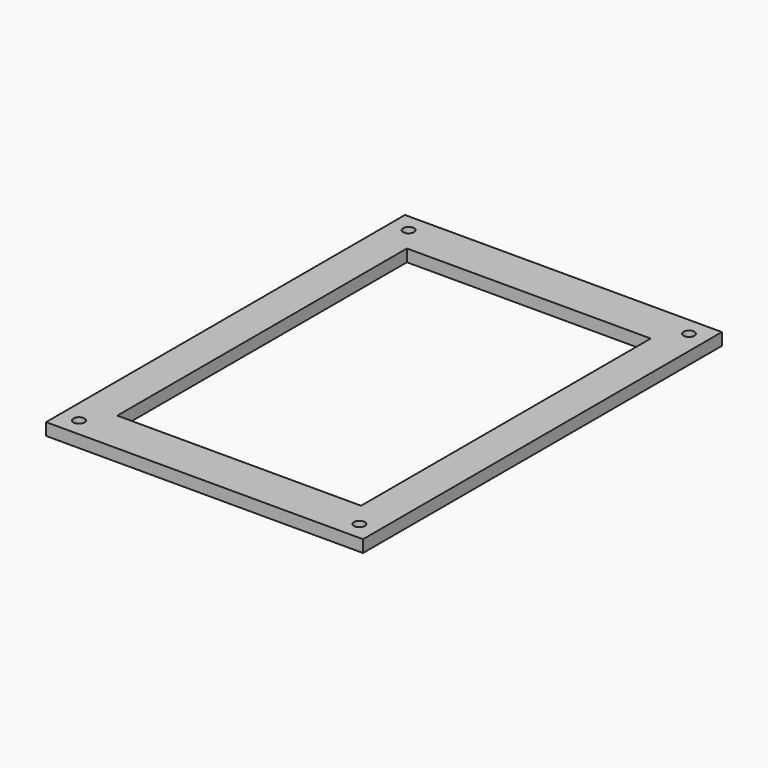
from build123d import *

# Parameters (mm, degrees)
F0_R     = 4.5
F1_DEPTH = 10


with BuildPart() as f1:
    # F0 (on Top) → F1 (new body)
    with BuildSketch(Plane.XY):
        Polygon((-243.172072, 141.001241), (-243.172072, -226.998759), (-67.646502, -226.998759), (-67.646502, -191.498759), (-213.172072, -191.498759), (-213.172072, 105.501241), (-113.172072, 105.501241), (-113.172072, 141.001241), align=None)
        with Locations((-228.172072, -211.998759)):
            Circle(F0_R, mode=Mode.SUBTRACT)
        with Locations((-228.172072, 126.001241)):
            Circle(F0_R, mode=Mode.SUBTRACT)
        Polygon((-67.646502, -191.498759), (-67.646502, -226.998759), (16.827928, -226.998759), (16.827928, 141.001241), (-113.172072, 141.001241), (-113.172072, 105.501241), (-13.172072, 105.501241), (-13.172072, -191.498759), align=None)
        with Locations((1.827928, -211.998759)):
            Circle(F0_R, mode=Mode.SUBTRACT)
        with Locations((1.827928, 126.001241)):
            Circle(F0_R, mode=Mode.SUBTRACT)
    extrude(amount=F1_DEPTH)


solid = f1.part
